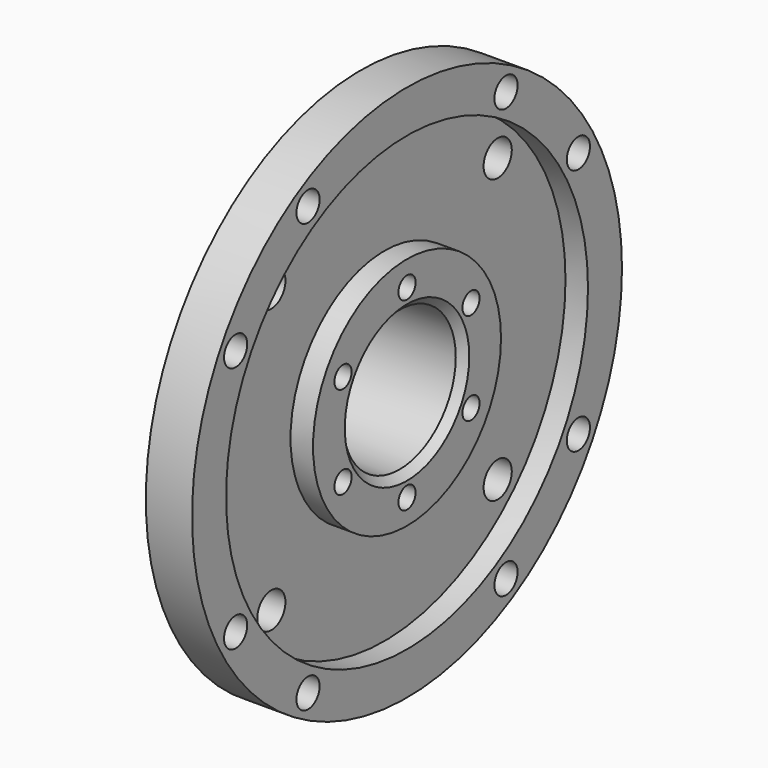
from build123d import *

# Parameters (mm, degrees)
F0_R      = 12.319
F0_R_2    = 11.938
F0_R_3    = 7.14375
F1_DEPTH  = 11.938
F0_R_4    = 17.018
F2_DEPTH  = 7.62
F0_R_5    = 27.305
F0_R_6    = 22.987
F3_DEPTH  = 4.699
F4_SIZE   = 1.524
F5_SIZE   = 0.762
F6_R      = 1.4732
F6_R_2    = 1.7907
F7_DEPTH  = 25.4
F8_DEPTH  = 2.286
F9_R      = 1.0922
F10_DEPTH = 9.652


with BuildPart() as f1:
    # F0 (on Right) → F1 (new body)
    with BuildSketch(Plane.YZ):
        Circle(F0_R)
        Circle(F0_R_2, mode=Mode.SUBTRACT)
        Circle(F0_R_2)
        Circle(F0_R_3, mode=Mode.SUBTRACT)
    extrude(amount=-F1_DEPTH)

    # F0 (on Right) → F2 (join)
    with BuildSketch(Plane.YZ):
        Circle(F0_R_4)
        Circle(F0_R, mode=Mode.SUBTRACT)
    extrude(amount=-F2_DEPTH)

    # F0 (on Right) → F3 (join)
    with BuildSketch(Plane.YZ):
        Circle(F0_R_5)
        Circle(F0_R_6, mode=Mode.SUBTRACT)
        Circle(F0_R_6)
        Circle(F0_R_4, mode=Mode.SUBTRACT)
    extrude(amount=-F3_DEPTH)

    # F4
    f4_edges = [f1.edges().sort_by_distance(p)[0] for p in [
        (-11.938, -12.319, 0),
    ]]
    chamfer(f4_edges, length=F4_SIZE)

    # F5
    f5_edges = [f1.edges().sort_by_distance(p)[0] for p in [
        (-11.938, -7.14375, 0),
        (0, -7.14375, 0),
    ]]
    chamfer(f5_edges, length=F5_SIZE)

    # F6 (on face) → F7 (cut)
    with BuildSketch(Plane.YZ):
        with Locations((-12.573, 21.7678)):
            Circle(F6_R)
        with Locations((-21.7678, 12.573)):
            Circle(F6_R)
        with Locations((-21.7678, -12.573)):
            Circle(F6_R)
        with Locations((12.573, 21.7678)):
            Circle(F6_R)
        with Locations((21.7678, 12.573)):
            Circle(F6_R)
        with Locations((21.7678, -12.573)):
            Circle(F6_R)
        with Locations((12.573, -21.7678)):
            Circle(F6_R)
        with Locations((-12.573, -21.7678)):
            Circle(F6_R)
        with Locations((-14.3764, 14.3764)):
            Circle(F6_R_2)
        with Locations((14.3764, 14.3764)):
            Circle(F6_R_2)
        with Locations((14.3764, -14.3764)):
            Circle(F6_R_2)
        with Locations((-14.3764, -14.3764)):
            Circle(F6_R_2)
    extrude(amount=-F7_DEPTH, mode=Mode.SUBTRACT)

    # F0 (on Right) → F8 (cut)
    with BuildSketch(Plane.YZ):
        Circle(F0_R_6)
        Circle(F0_R_4, mode=Mode.SUBTRACT)
        Circle(F0_R_4)
        Circle(F0_R, mode=Mode.SUBTRACT)
        Circle(F0_R)
        Circle(F0_R_2, mode=Mode.SUBTRACT)
    extrude(amount=-F8_DEPTH, mode=Mode.SUBTRACT)

    # F9 (on face) → F10 (cut)
    with BuildSketch(Plane.YZ):
        with Locations((-8.128, 4.699)):
            Circle(F9_R)
        with Locations((0, 9.398)):
            Circle(F9_R)
        with Locations((8.128, 4.699)):
            Circle(F9_R)
        with Locations((8.128, -4.699)):
            Circle(F9_R)
        with Locations((0, -9.398)):
            Circle(F9_R)
        with Locations((-8.128, -4.699)):
            Circle(F9_R)
    extrude(amount=-F10_DEPTH, mode=Mode.SUBTRACT)


solid = f1.part
